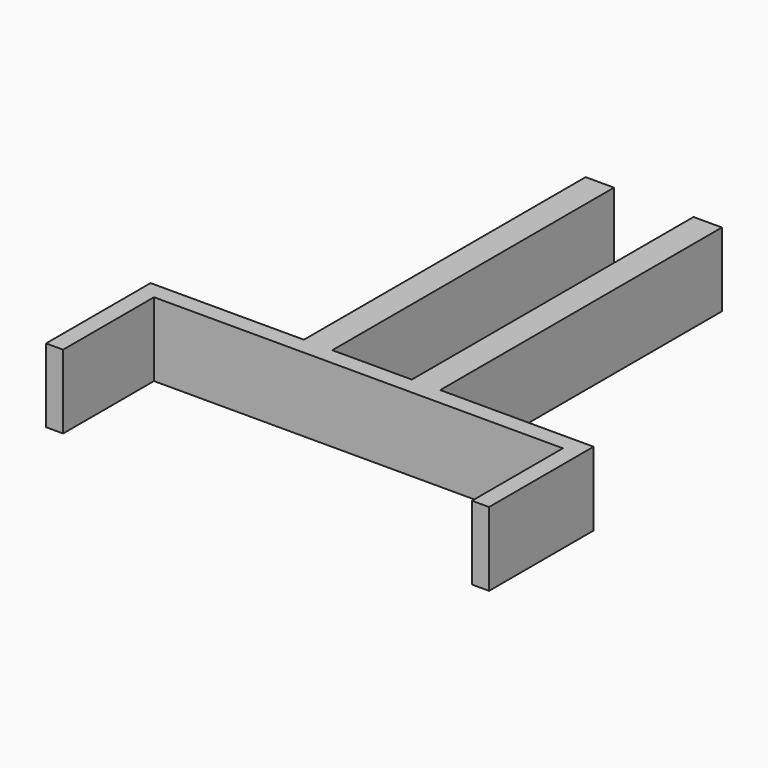
from build123d import *

# Parameters (mm, degrees)
F0_W     = 5
F0_H     = 62
F1_DEPTH = 13


with BuildPart() as f1:
    # F0 (on Top) → F1 (new body)
    with BuildSketch(Plane.XY):
        Polygon((36, 3), (36, 0), (36, -20), (39, -20), (39, 3), align=None)
        with Locations((-9.5, 34)):
            Rectangle(F0_W, F0_H)
        with Locations((9.5, 34)):
            Rectangle(F0_W, F0_H)
        Polygon((-36, 3), (-36, 0), (36, 0), (36, 3), (12, 3), (7, 3), (-7, 3), (-12, 3), align=None)
        Polygon((-36, -20), (-36, 0), (-36, 3), (-39, 3), (-39, -20), align=None)
    extrude(amount=F1_DEPTH)


solid = f1.part
